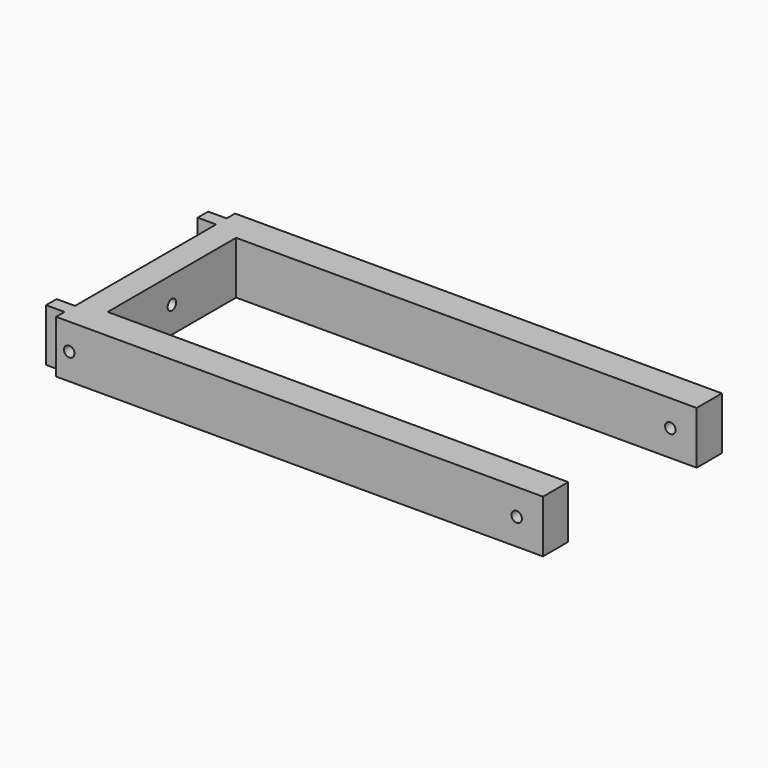
from build123d import *

# Parameters (mm, degrees)
PAD_DEPTH       = 20
SKETCH004_R     = 2
POCKET002_DEPTH = 185.001
SKETCH005_R     = 2
POCKET003_DEPTH = 85.001


with BuildPart() as part:
    # Sketch → Pad (new body)
    with BuildSketch(Plane.XY):
        Polygon((-10, -42.5), (175, -42.5), (175, -30.5), (0, -30.5), (0, 30.5), (175, 30.5), (175, 42.5), (-10, 42.5), (-10, 38.5), (-17, 38.5), (-17, 33.5), (-10, 33.5), (-10, -33.5), (-17, -33.5), (-17, -38.5), (-10, -38.5), align=None)
    extrude(amount=PAD_DEPTH)

    # Sketch004 → Pocket002 (cut, through all)
    with BuildSketch(Plane(origin=(-10, 0, 0), x_dir=(0, -1, 0), z_dir=(-1, 0, 0))):
        with Locations((0, 10)):
            Circle(SKETCH004_R)
    extrude(amount=-POCKET002_DEPTH, mode=Mode.SUBTRACT)

    # Sketch005 → Pocket003 (cut, through all)
    with BuildSketch(Plane.XZ.offset(42.5)):
        with Locations((-5, 10)):
            Circle(SKETCH005_R)
        with Locations((165, 10)):
            Circle(SKETCH005_R)
    extrude(amount=-POCKET003_DEPTH, mode=Mode.SUBTRACT)


solid = part.part
